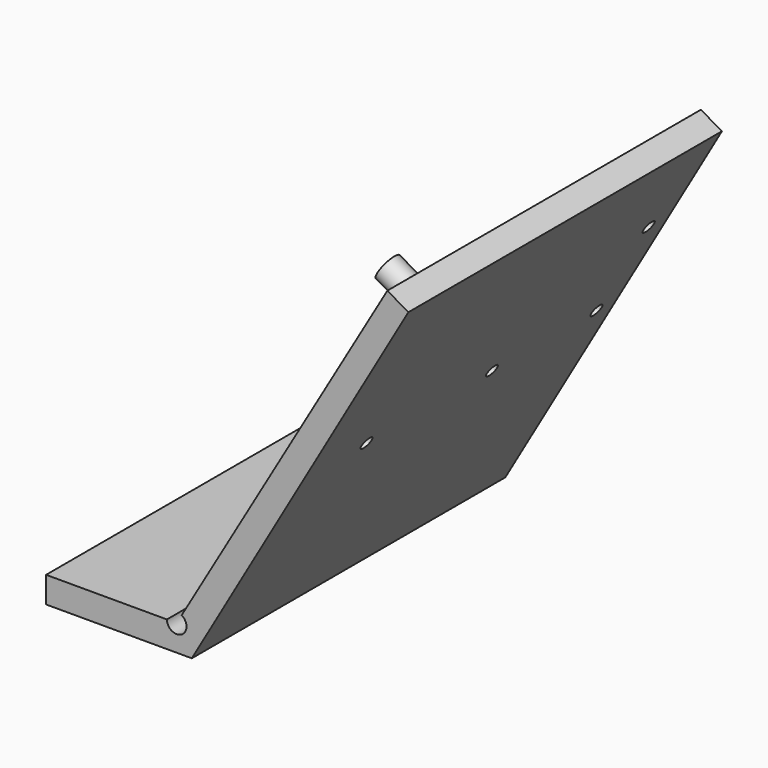
from build123d import *

# Parameters (mm, degrees)
F1_DEPTH = 190.5
F3_DEPTH = 21.9964
F4_R     = 6.35
F5_DEPTH = 68.1482
F6_D     = 6.35


with BuildPart() as f1:
    # F0 (on Front) → F1 (new body)
    with BuildSketch(Plane.XZ):
        with BuildLine():
            Line((0, 12.7), (0, 0))
            Line((0, 0), (70.8406, 0))
            Line((70.8406, 0), (176.1109, 182.333508128))
            Line((176.1109, 182.333508128), (165.8914941513, 188.2336848457))
            Line((165.8914941513, 188.2336848457), (65.8996305851, 16.8137791998))
            ThreePointArc((65.8996305851, 16.8137791998), (65.872041904, 8.5702514052), (58.7375, 12.7))
            Line((58.7375, 12.7), (0, 12.7))
        make_face()
    extrude(amount=F1_DEPTH)

    # F2 (on face) → F3 (join)
    with BuildSketch(Plane.XY.offset(12.7)):
        with BuildLine():
            ThreePointArc((25.4, -6.35), (20.9098719395, -17.1901280605), (31.75, -12.7))
            ThreePointArc((31.75, -12.7), (29.8901280605, -8.2098719395), (25.4, -6.35))
        make_face()
    extrude(amount=F3_DEPTH)

    # F4 (on face) → F5 (join)
    with BuildSketch(Plane(origin=(41.8516023858, 0, -24.4126824129), x_dir=(0, -1, 0), z_dir=(-0.8637856588, 0, 0.5038594404))):
        with Locations((12.7, 81.1343050771)):
            Circle(F4_R)
    extrude(amount=F5_DEPTH)

    # F6 (through all)
    with Locations(Plane(origin=(41.8516023858, 0, -24.4126824129), x_dir=(0, -1, 0), z_dir=(-0.8637856588, 0, 0.5038594404))):
        with Locations((12.7, 195.3795528826), (12.7, 144.5795528826), (76.2, 144.5795528826), (152.4, 144.5795528826)):
            Hole(F6_D / 2)


solid = f1.part
